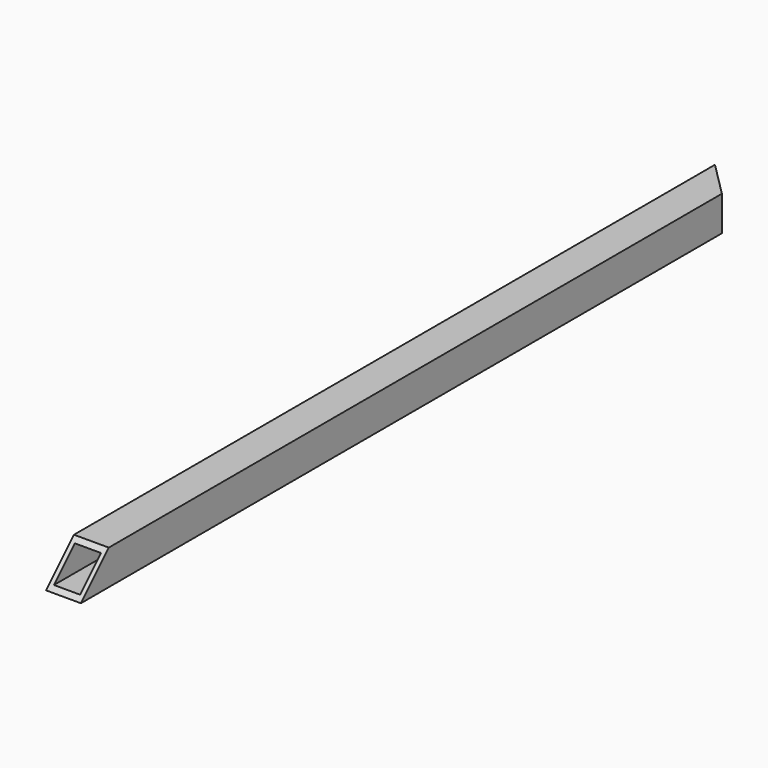
from build123d import *

# Parameters (mm, degrees)
F0_W     = 38.1
F0_H     = 38.1
F0_W_2   = 28.5496
F0_H_2   = 28.5496
F1_DEPTH = 914.4
F4_DEPTH = 38.101
F5_DEPTH = 38.101


with BuildPart() as f1:
    # F0 (on Front) → F1 (new body)
    with BuildSketch(Plane.XZ):
        Rectangle(F0_W, F0_H)
        Rectangle(F0_W_2, F0_H_2, mode=Mode.SUBTRACT)
    extrude(amount=F1_DEPTH)

    # F2 (on face) → F4 (cut, through all)
    with BuildSketch(Plane.XY.offset(19.05)):
        Polygon((19.05, 0), (-19.05, 0), (19.05, -38.1), align=None)
    extrude(amount=-F4_DEPTH, mode=Mode.SUBTRACT)

    # F3 (on face) → F5 (cut, through all)
    with BuildSketch(Plane(origin=(-19.05, 0, 0), x_dir=(0, -1, 0), z_dir=(-1, 0, 0))):
        Polygon((876.3, 19.05), (914.4, -19.05), (914.4, 19.05), align=None)
    extrude(amount=-F5_DEPTH, mode=Mode.SUBTRACT)


solid = f1.part
